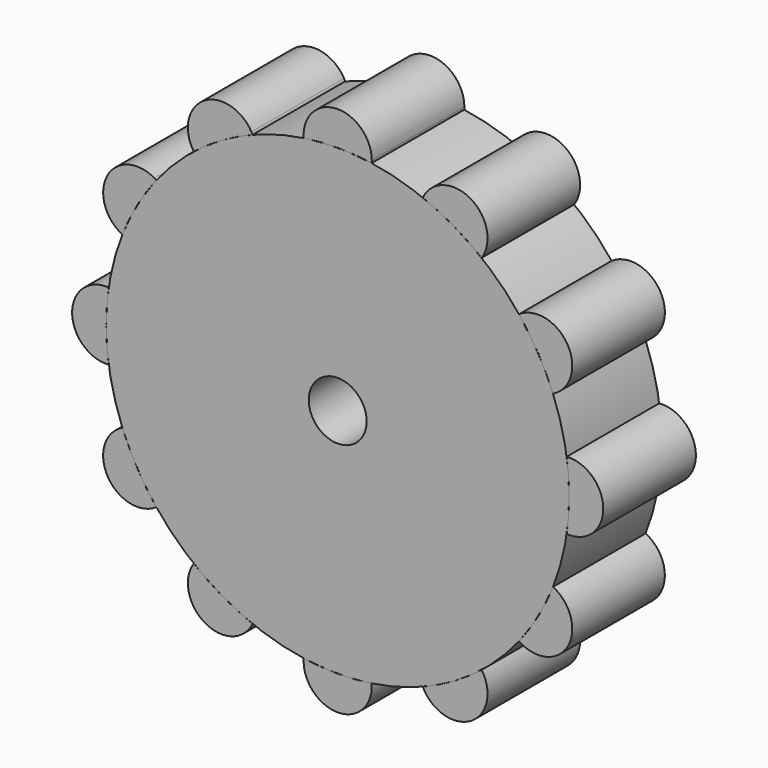
from build123d import *

# Parameters (mm, degrees)
F0_R     = 50.8
F0_R_2   = 6.35
F1_DEPTH = 12.7
F3_DEPTH = 25.4
F4_COUNT = 12


with BuildPart() as f1:
    # F0 (on Front) → F1 (new body, symmetric)
    with BuildSketch(Plane.XZ):
        Circle(F0_R)
        Circle(F0_R_2, mode=Mode.SUBTRACT)
    extrude(amount=F1_DEPTH, both=True)


with BuildPart() as f3:
    # F2 (on face) → F3 (new body)
    with BuildSketch(Plane.XZ.offset(12.7)):
        with BuildLine():
            ThreePointArc((7.454861, 50.250025), (7.470053, 50.524826), (7.47512, 50.8))
            ThreePointArc((7.47512, 50.8), (-0.275174, 58.270053), (-7.454861, 50.250025))
            ThreePointArc((-7.454861, 50.250025), (0, 50.8), (7.454861, 50.250025))
        make_face()
    extrude(amount=-F3_DEPTH)


with BuildPart() as f4_1:
    # F4: instance of F3
    add(f3.part.rotate(Axis((0, -12.7, 0), (0, -1, 0)), 1 * 360 / F4_COUNT))


with BuildPart() as f4_2:
    # F4: instance of F3
    add(f3.part.rotate(Axis((0, -12.7, 0), (0, -1, 0)), 2 * 360 / F4_COUNT))


with BuildPart() as f4_3:
    # F4: instance of F3
    add(f3.part.rotate(Axis((0, -12.7, 0), (0, -1, 0)), 3 * 360 / F4_COUNT))


with BuildPart() as f4_4:
    # F4: instance of F3
    add(f3.part.rotate(Axis((0, -12.7, 0), (0, -1, 0)), 4 * 360 / F4_COUNT))


with BuildPart() as f4_5:
    # F4: instance of F3
    add(f3.part.rotate(Axis((0, -12.7, 0), (0, -1, 0)), 5 * 360 / F4_COUNT))


with BuildPart() as f4_6:
    # F4: instance of F3
    add(f3.part.rotate(Axis((0, -12.7, 0), (0, -1, 0)), 6 * 360 / F4_COUNT))


with BuildPart() as f4_7:
    # F4: instance of F3
    add(f3.part.rotate(Axis((0, -12.7, 0), (0, -1, 0)), 7 * 360 / F4_COUNT))


with BuildPart() as f4_8:
    # F4: instance of F3
    add(f3.part.rotate(Axis((0, -12.7, 0), (0, -1, 0)), 8 * 360 / F4_COUNT))


with BuildPart() as f4_9:
    # F4: instance of F3
    add(f3.part.rotate(Axis((0, -12.7, 0), (0, -1, 0)), 9 * 360 / F4_COUNT))


with BuildPart() as f4_10:
    # F4: instance of F3
    add(f3.part.rotate(Axis((0, -12.7, 0), (0, -1, 0)), 10 * 360 / F4_COUNT))


with BuildPart() as f4_11:
    # F4: instance of F3
    add(f3.part.rotate(Axis((0, -12.7, 0), (0, -1, 0)), 11 * 360 / F4_COUNT))


solid = Compound([f1.part, f3.part, f4_1.part, f4_2.part, f4_3.part, f4_4.part, f4_5.part, f4_6.part, f4_7.part, f4_8.part, f4_9.part, f4_10.part, f4_11.part])
